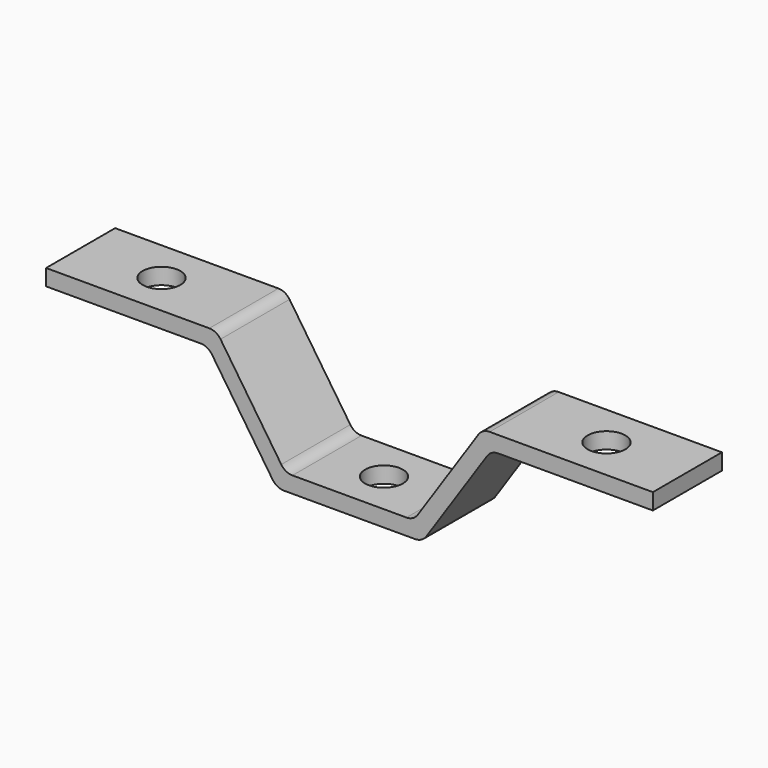
from build123d import *

# Parameters (mm, degrees)
F1_DEPTH = 32
F2_R     = 5
F4_D     = 14
F6_D     = 14


with BuildPart() as f1:
    # F0 (on Front) → F1 (new body)
    with BuildSketch(Plane.XZ):
        Polygon((-52.5, 38), (-27, 0), (27, 0), (52.5, 38), (112.5, 38), (112.5, 44), (49.300583, 44), (23.800583, 6), (-23.800583, 6), (-49.300583, 44), (-112.5, 44), (-112.5, 38), align=None)
    extrude(amount=F1_DEPTH)

    # F2
    f2_edges = [f1.edges().sort_by_distance(p)[0] for p in [
        (-49.300583, -16, 44),
        (-23.800583, -16, 6),
        (23.800583, -16, 6),
        (49.300583, -16, 44),
        (52.5, -16, 38),
        (27, -16, 0),
        (-27, -16, 0),
        (-52.5, -16, 38),
    ]]
    fillet(f2_edges, radius=F2_R)

    # F4 (through all)
    with Locations(Plane.XY.offset(6)):
        with Locations((0, -16)):
            Hole(F4_D / 2)

    # F6 (through all)
    with Locations(Plane.XY.offset(44)):
        with Locations((-82.5, -16), (82.5, -16)):
            Hole(F6_D / 2)


solid = f1.part
